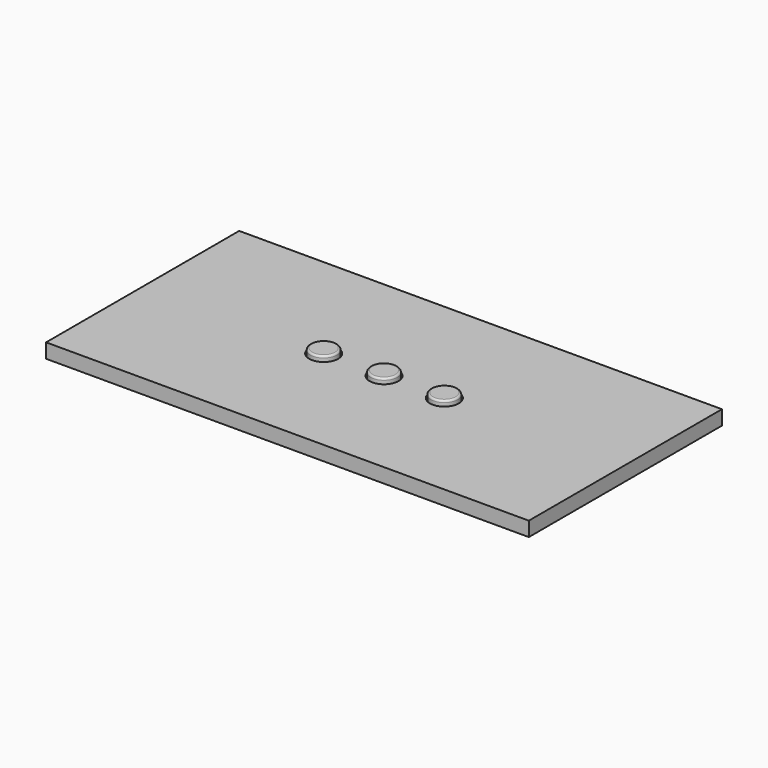
from build123d import *

# Parameters (mm, degrees)
F0_W     = 100
F0_H     = 50
F0_R     = 3
F1_DEPTH = 3
F0_R_2   = 2.75
F0_R_3   = 1.75
F2_DEPTH = 4
F3_DEPTH = 3
F4_R     = 0.4
F4_2_R   = 0.4
F4_3_R   = 0.4


with BuildPart() as f1:
    # F0 (on Top) → F1 (new body)
    with BuildSketch(Plane.XY):
        Rectangle(F0_W, F0_H)
        with Locations((-12.5, 0)):
            Circle(F0_R, mode=Mode.SUBTRACT)
        Circle(F0_R, mode=Mode.SUBTRACT)
        with Locations((12.5, 0)):
            Circle(F0_R, mode=Mode.SUBTRACT)
    extrude(amount=F1_DEPTH)


with BuildPart() as f2:
    # F0 (on Top) → F2 (new body)
    with BuildSketch(Plane.XY):
        with Locations((-12.5, 0)):
            Circle(F0_R_2)
        with Locations((-12.5, 0)):
            Circle(F0_R_3, mode=Mode.SUBTRACT)
        with Locations((-12.5, 0)):
            Circle(F0_R_3)
    extrude(amount=F2_DEPTH)


with BuildPart() as f2b:
    # F0 (on Top) → F2, piece 2 (new body)
    with BuildSketch(Plane.XY):
        Circle(F0_R_2)
        Circle(F0_R_3, mode=Mode.SUBTRACT)
        Circle(F0_R_3)
    extrude(amount=F2_DEPTH)


with BuildPart() as f2c:
    # F0 (on Top) → F2, piece 3 (new body)
    with BuildSketch(Plane.XY):
        with Locations((12.5, 0)):
            Circle(F0_R_2)
        with Locations((12.5, 0)):
            Circle(F0_R_3, mode=Mode.SUBTRACT)
        with Locations((12.5, 0)):
            Circle(F0_R_3)
    extrude(amount=F2_DEPTH)


with BuildPart() as f3_tool:
    # F0 (on Top) → F3 (new body)
    with BuildSketch(Plane.XY):
        with Locations((-12.5, 0)):
            Circle(F0_R_3)
        Circle(F0_R_3)
        with Locations((12.5, 0)):
            Circle(F0_R_3)
    extrude(amount=F3_DEPTH)


with BuildPart() as f2_1:
    add(f2.part)

    # F3: cut by f3_tool
    add(f3_tool.part, mode=Mode.SUBTRACT)

    # F4#3
    f4_3_edges = [f2_1.edges().sort_by_distance(p)[0] for p in [
        (-15.25, 0, 4),
    ]]
    fillet(f4_3_edges, radius=F4_3_R)


with BuildPart() as f2b_1:
    add(f2b.part)

    # F3: cut by f3_tool
    add(f3_tool.part, mode=Mode.SUBTRACT)

    # F4#2
    f4_2_edges = [f2b_1.edges().sort_by_distance(p)[0] for p in [
        (-2.75, 0, 4),
    ]]
    fillet(f4_2_edges, radius=F4_2_R)


with BuildPart() as f2c_1:
    add(f2c.part)

    # F3: cut by f3_tool
    add(f3_tool.part, mode=Mode.SUBTRACT)

    # F4
    f4_edges = [f2c_1.edges().sort_by_distance(p)[0] for p in [
        (9.75, 0, 4),
    ]]
    fillet(f4_edges, radius=F4_R)


solid = Compound([f1.part, f2_1.part, f2b_1.part, f2c_1.part])
